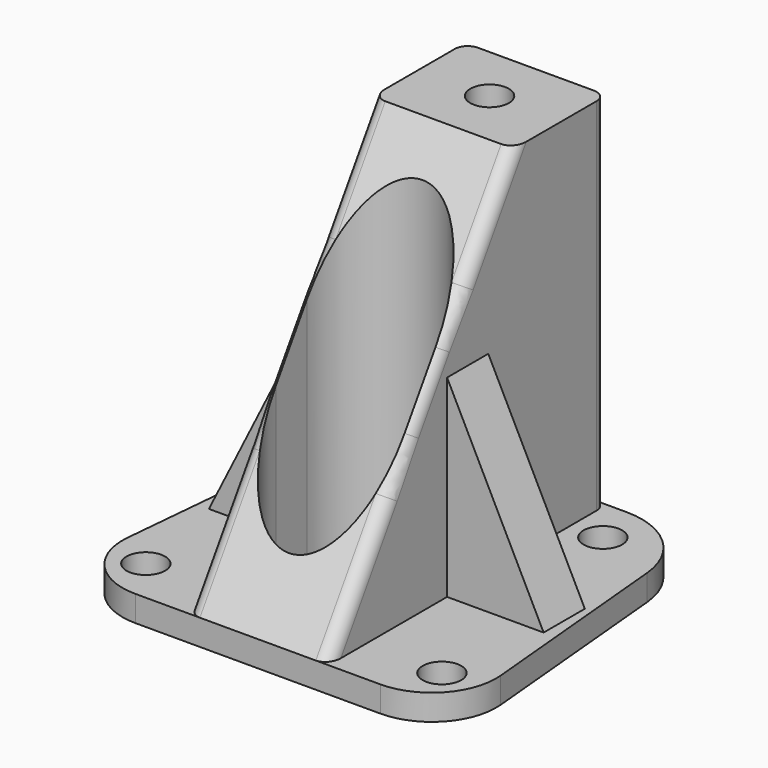
from build123d import *

# Parameters (mm, degrees)
SKETCH_W        = 30
SKETCH_H        = 27
PAD_DEPTH       = 2
SKETCH002_W     = 11
SKETCH002_H     = 27
PAD001_DEPTH    = 28
SKETCH001_R     = 1.5
POCKET001_DEPTH = 2.001
POCKET_DEPTH    = 20.501
POCKET002_DEPTH = 28.001
FILLET_R        = 6
FILLET001_R     = 5
FILLET002_R     = 1
SKETCH005_R     = 1.5
POCKET003_DEPTH = 8
SKETCH006_W     = 7.5
SKETCH006_H     = 4
PAD002_DEPTH    = 15
POCKET004_DEPTH = 4


with BuildPart() as part:
    # Sketch → Pad (new body)
    with BuildSketch(Plane.XY):
        with Locations((15, 13.5)):
            Rectangle(SKETCH_W, SKETCH_H)
    extrude(amount=PAD_DEPTH)

    # Sketch002 (on Face6 of Pad) → Pad001 (join)
    with BuildSketch(Plane.XY.offset(2)):
        with Locations((15, 13.5)):
            Rectangle(SKETCH002_W, SKETCH002_H)
    extrude(amount=PAD001_DEPTH)

    # Sketch001 (on Face6 of Pad) → Pocket001 (cut, through all)
    with BuildSketch(Plane.XY.offset(2)):
        with Locations((3.5, 3.5)):
            Circle(SKETCH001_R)
        with Locations((26.5, 3.5)):
            Circle(SKETCH001_R)
        with Locations((23, 23.5)):
            Circle(SKETCH001_R)
        with Locations((7, 23.5)):
            Circle(SKETCH001_R)
        Polygon((0, 0), (0, 27), (2.5, 27), align=None)
        Polygon((30, 0), (30, 27), (27.5, 27), align=None)
        with BuildLine():
            ThreePointArc((10, 8), (15, 3), (20, 8))
            Line((20, 8), (20, 11))
            ThreePointArc((20, 11), (15, 16), (10, 11))
            Line((10, 8), (10, 11))
        make_face()
    extrude(amount=-POCKET001_DEPTH, mode=Mode.SUBTRACT)

    # Sketch003 (on Face11 of Pad001) → Pocket (cut, through all)
    with BuildSketch(Plane.YZ.offset(20.5)):
        Polygon((0, 30), (18, 30), (0, 2), align=None)
    extrude(amount=-POCKET_DEPTH, mode=Mode.SUBTRACT)

    # Sketch004 (on Face21 of Pocket) → Pocket002 (cut, through all)
    with BuildSketch(Plane(origin=(0, 0, 2), x_dir=(1, 0, 0), z_dir=(0, 0, -1))):
        with BuildLine():
            ThreePointArc((10, -11), (15, -16), (20, -11))
            Line((20, -11), (20, -8))
            ThreePointArc((20, -8), (15, -3), (10, -8))
            Line((10, -11), (10, -8))
        make_face()
    extrude(amount=-POCKET002_DEPTH, mode=Mode.SUBTRACT)

    # Fillet
    fillet_edges = [part.edges().sort_by_distance(p)[0] for p in [
        (27.5, 27, 1),
        (2.5, 27, 1),
    ]]
    fillet(fillet_edges, radius=FILLET_R)

    # Fillet001
    fillet001_edges = [part.edges().sort_by_distance(p)[0] for p in [
        (30, 0, 1),
        (0, 0, 1),
    ]]
    fillet(fillet001_edges, radius=FILLET001_R)

    # Fillet002
    fillet002_edges = [part.edges().sort_by_distance(p)[0] for p in [
        (20.5, 27, 16),
        (9.5, 27, 16),
        (20.5, 9, 16),
        (9.5, 9, 16),
    ]]
    fillet(fillet002_edges, radius=FILLET002_R)

    # Sketch005 (on Face19 of Pocket002) → Pocket003 (cut)
    with BuildSketch(Plane.XY.offset(30)):
        with Locations((15, 22.5)):
            Circle(SKETCH005_R)
    extrude(amount=-POCKET003_DEPTH, mode=Mode.SUBTRACT)

    # Sketch006 (on Face1 of Pocket003) → Pad002 (join)
    with BuildSketch(Plane.XY.offset(2)):
        with Locations((5.75, 13.5)):
            Rectangle(SKETCH006_W, SKETCH006_H)
        with Locations((24.25, 13.5)):
            Rectangle(SKETCH006_W, SKETCH006_H)
    extrude(amount=PAD002_DEPTH)

    # Sketch007 (on Face14 of Pad002) → Pocket004 (cut)
    with BuildSketch(Plane.XZ.offset(-11.5)):
        Polygon((2, 2), (9.5, 17), (2, 17), align=None)
        Polygon((20.5, 17), (28, 2), (28, 17), align=None)
    extrude(amount=-POCKET004_DEPTH, mode=Mode.SUBTRACT)


solid = part.part
